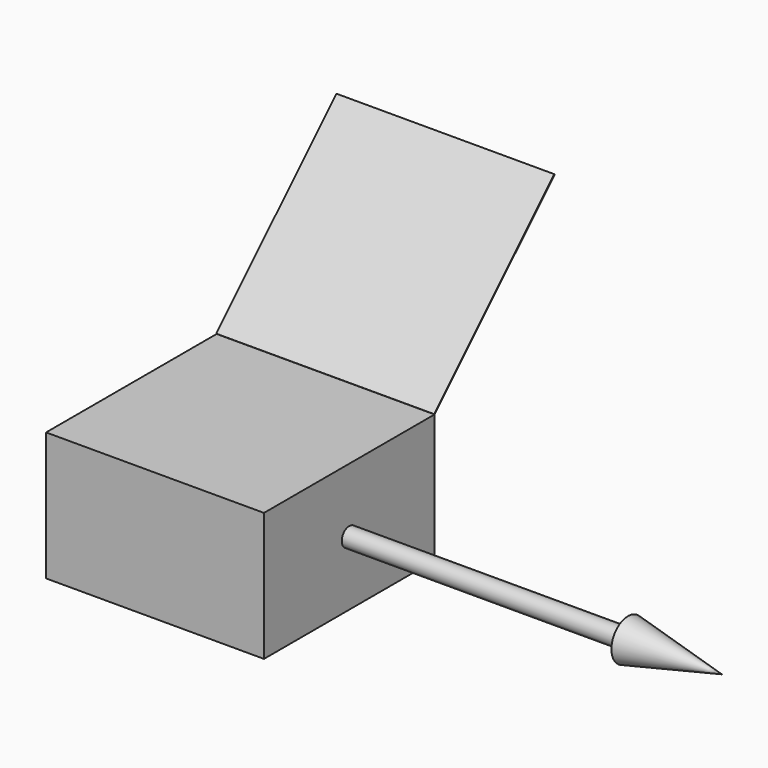
from build123d import *

# Parameters (mm, degrees)
F0_W     = 139
F0_H     = 136
F1_DEPTH = 82
F3_W     = 139
F3_H     = 135.5
F4_DEPTH = 0.4572
F5_R     = 5.992711
F6_DEPTH = 177.8


with BuildPart() as f1:
    # F0 (on Top) → F1 (new body)
    with BuildSketch(Plane.XY):
        with Locations((69.5, -68.870176)):
            Rectangle(F0_W, F0_H)
    extrude(amount=F1_DEPTH)


with BuildPart() as f4:
    # F3 (on face) → F4 (new body)
    with BuildSketch(Plane(origin=(0, -41.435088, 41.435088), x_dir=(1, 0, 0), z_dir=(0, -0.707107, 0.707107))):
        with Locations((69.5, 125.117448)):
            Rectangle(F3_W, F3_H)
    extrude(amount=F4_DEPTH)


with BuildPart() as f6:
    # F5 (on face) → F6 (new body)
    with BuildSketch(Plane.YZ.offset(139)):
        with Locations((-68.870176, 41)):
            Circle(F5_R)
    extrude(amount=F6_DEPTH)

    # F8 (on face) → F9 (revolve)
    with BuildSketch(Plane.XZ.offset(68.870176)):
        Polygon((376.72985, 41), (316.8, 41), (316.8, 27.789498), align=None)
    revolve(axis=Axis((227.9, -68.870176, 41), (1, 0, 0)))


solid = Compound([f1.part, f4.part, f6.part])
